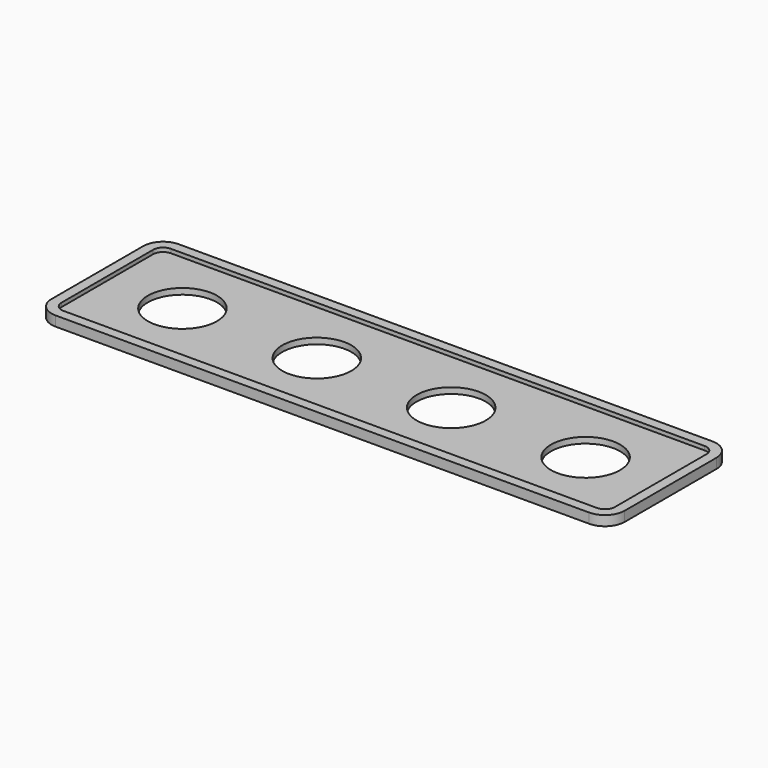
from build123d import *

# Parameters (mm, degrees)
F0_R     = 17.5
F1_DEPTH = 3
F2_DEPTH = 5


with BuildPart() as f1:
    # F0 (on Top) → F1 (new body)
    with BuildSketch(Plane.XY):
        with BuildLine():
            Line((-135, -34), (135, -34))
            ThreePointArc((135, -34), (138.535534, -32.535534), (140, -29))
            Line((140, -29), (140, 0))
            Line((140, 0), (140, 29))
            ThreePointArc((140, 29), (138.535534, 32.535534), (135, 34))
            Line((135, 34), (-135, 34))
            ThreePointArc((-135, 34), (-138.535534, 32.535534), (-140, 29))
            Line((-140, 29), (-140, -29))
            ThreePointArc((-140, -29), (-138.535534, -32.535534), (-135, -34))
        make_face()
        with Locations((-102, 0)):
            Circle(F0_R, mode=Mode.SUBTRACT)
        with Locations((-34, 0)):
            Circle(F0_R, mode=Mode.SUBTRACT)
        with Locations((34, 0)):
            Circle(F0_R, mode=Mode.SUBTRACT)
        with Locations((102, 0)):
            Circle(F0_R, mode=Mode.SUBTRACT)
    extrude(amount=F1_DEPTH)

    # F0 (on Top) → F2 (join)
    with BuildSketch(Plane.XY):
        with BuildLine():
            Line((-135, -39.000001), (135, -39.000001))
            ThreePointArc((135, -39.000001), (142.071068, -36.071068), (145.000001, -29))
            Line((145.000001, -29), (145.000001, 0))
            Line((145.000001, 0), (145.000001, 29))
            ThreePointArc((145.000001, 29), (142.071068, 36.071068), (135, 39.000001))
            Line((135, 39.000001), (-135, 39.000001))
            ThreePointArc((-135, 39.000001), (-142.071068, 36.071068), (-145.000001, 29))
            Line((-145.000001, 29), (-145.000001, -29))
            ThreePointArc((-145.000001, -29), (-142.071068, -36.071068), (-135, -39.000001))
        make_face()
        with BuildLine():
            ThreePointArc((140, -29), (138.535534, -32.535534), (135, -34))
            Line((135, -34), (-135, -34))
            ThreePointArc((-135, -34), (-138.535534, -32.535534), (-140, -29))
            Line((-140, -29), (-140, 29))
            ThreePointArc((-140, 29), (-138.535534, 32.535534), (-135, 34))
            Line((-135, 34), (135, 34))
            ThreePointArc((135, 34), (138.535534, 32.535534), (140, 29))
            Line((140, 29), (140, 0))
            Line((140, 0), (140, -29))
        make_face(mode=Mode.SUBTRACT)
    extrude(amount=F2_DEPTH)


solid = f1.part
